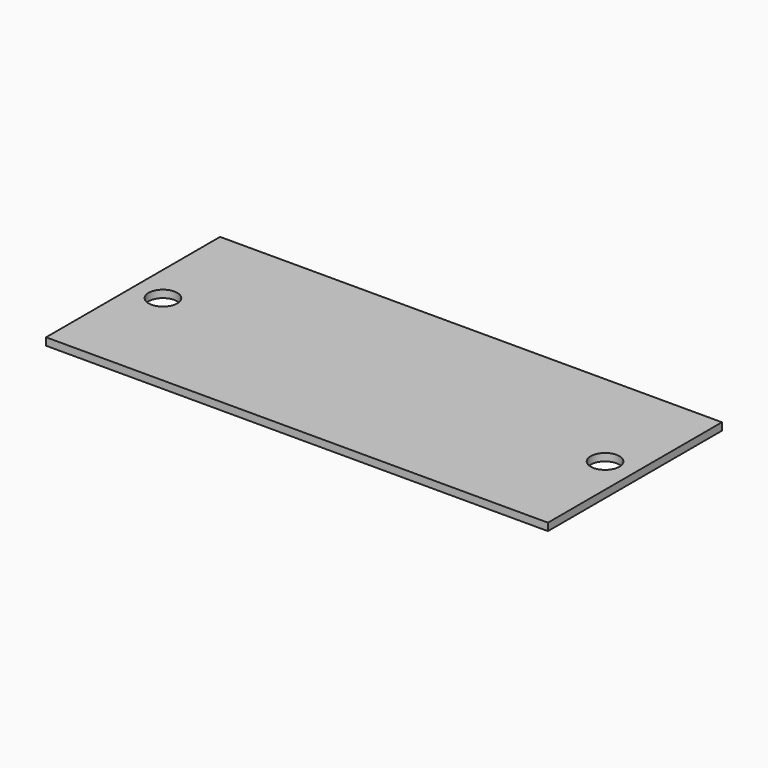
from build123d import *

# Parameters (mm, degrees)
F0_W     = 6.35
F0_H     = 23.114
F0_R     = 1.524
F0_W_2   = 40.64
F1_DEPTH = 0.79375


with BuildPart() as f1:
    # F0 (on Top) → F1 (new body)
    with BuildSketch(Plane.XY):
        with Locations((23.495, 0)):
            Rectangle(F0_W, F0_H)
        with Locations((23.495, 0)):
            Circle(F0_R, mode=Mode.SUBTRACT)
        Rectangle(F0_W_2, F0_H)
        with Locations((-23.495, 0)):
            Rectangle(F0_W, F0_H)
        with Locations((-23.495, 0)):
            Circle(F0_R, mode=Mode.SUBTRACT)
    extrude(amount=F1_DEPTH)


solid = f1.part
